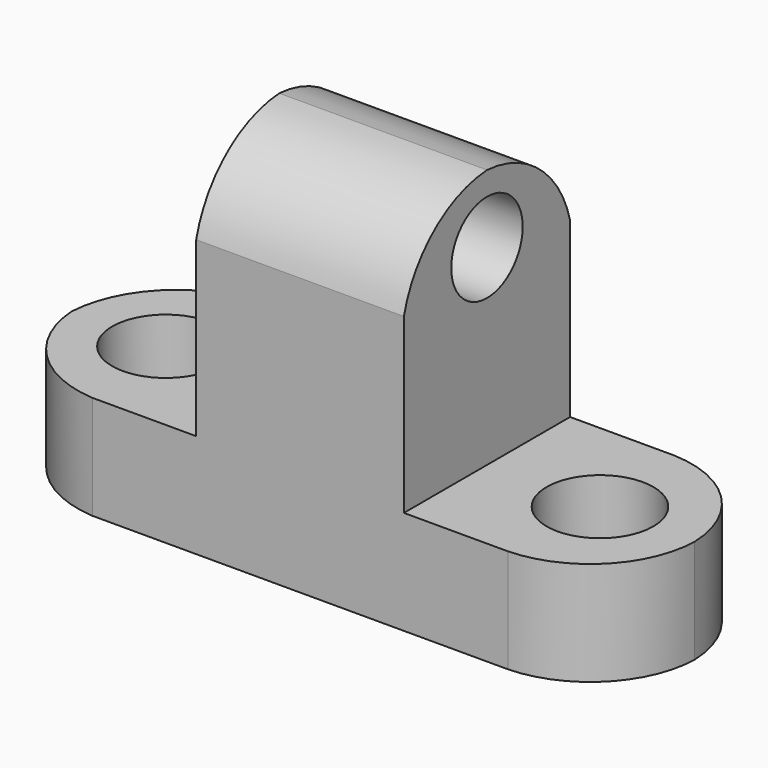
from build123d import *

# Parameters (mm, degrees)
F1_DEPTH = 25.4
F3_DEPTH = 25.4
F4_R     = 5.457243
F5_DEPTH = 25.4
F6_R     = 6.556399
F7_DEPTH = 12.7
F8_R     = 6.526479
F9_DEPTH = 25.4


with BuildPart() as f1:
    # F0 (on Front) → F1 (new body)
    with BuildSketch(Plane.XZ):
        Polygon((-13.941352, 12.7), (-13.941352, 0), (62.258648, 0), (62.258648, 12.7), (36.858648, 12.7), (36.858648, 44.45), (11.458648, 44.45), (11.458648, 12.7), align=None)
    extrude(amount=F1_DEPTH)

    # F2 (on face) → F3 (cut)
    with BuildSketch(Plane.YZ.offset(36.858648)):
        with BuildLine():
            ThreePointArc((-25.4, 33.849411), (-20.7886, 41.232629), (-12.7, 44.45))
            Line((-12.7, 44.45), (-25.4, 44.45))
            Line((-25.4, 44.45), (-25.4, 33.849411))
        make_face()
        with BuildLine():
            Line((0, 44.45), (-12.7, 44.45))
            ThreePointArc((-12.7, 44.45), (-4.617872, 41.224876), (0, 33.849411))
            Line((0, 33.849411), (0, 44.45))
        make_face()
    extrude(amount=-F3_DEPTH, mode=Mode.SUBTRACT)

    # F4 (on face) → F5 (cut)
    with BuildSketch(Plane.YZ.offset(36.858648)):
        with Locations((-12.7, 36.11993)):
            Circle(F4_R)
    extrude(amount=-F5_DEPTH, mode=Mode.SUBTRACT)

    # F6 (on face) → F7 (cut)
    with BuildSketch(Plane.XY.offset(12.7)):
        with BuildLine():
            Line((-13.941352, 0), (-13.941352, -12.7))
            ThreePointArc((-13.941352, -12.7), (-10.016193, -3.925159), (-1.241352, 0))
            Line((-1.241352, 0), (-13.941352, 0))
        make_face()
        with BuildLine():
            ThreePointArc((-1.241352, -25.4), (-9.966637, -21.425286), (-13.941352, -12.7))
            Line((-13.941352, -12.7), (-13.941352, -25.4))
            Line((-13.941352, -25.4), (-1.241352, -25.4))
        make_face()
        with Locations((-2.420933, -12.7)):
            Circle(F6_R)
    extrude(amount=-F7_DEPTH, mode=Mode.SUBTRACT)

    # F8 (on face) → F9 (cut)
    with BuildSketch(Plane.XY.offset(12.7)):
        with Locations((50.674323, -12.7)):
            Circle(F8_R)
        with BuildLine():
            ThreePointArc((49.558648, 0), (58.40559, -3.853059), (62.258648, -12.7))
            Line((62.258648, -12.7), (62.258648, 0))
            Line((62.258648, 0), (49.558648, 0))
        make_face()
        with BuildLine():
            Line((62.258648, -25.4), (62.258648, -12.7))
            ThreePointArc((62.258648, -12.7), (58.437118, -21.57847), (49.558648, -25.4))
            Line((49.558648, -25.4), (62.258648, -25.4))
        make_face()
    extrude(amount=-F9_DEPTH, mode=Mode.SUBTRACT)


solid = f1.part
